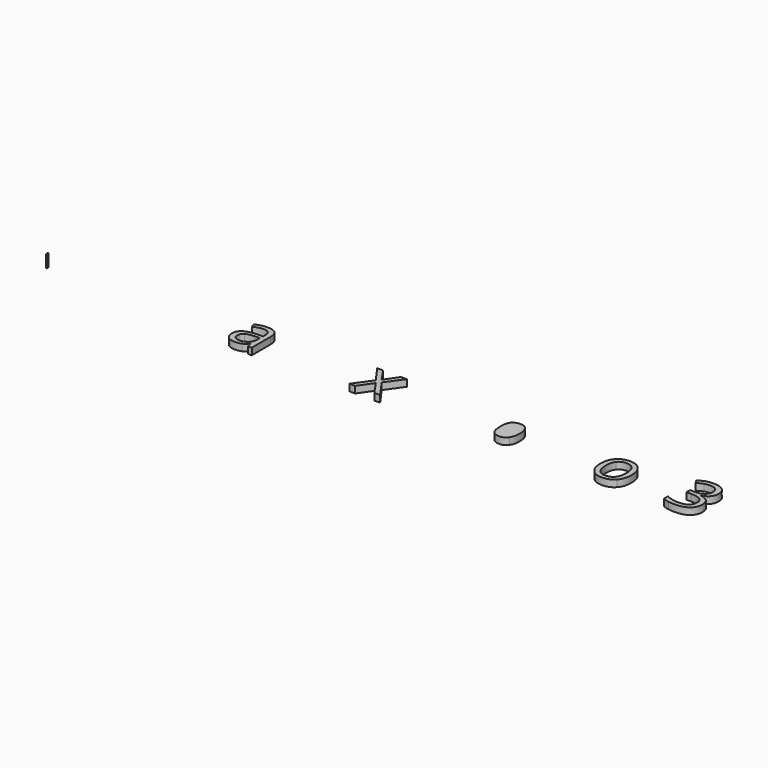
from build123d import *

# Parameters (mm, degrees)
F0_W     = 7.8056156635
F0_H     = 47.1107587218
F1_DEPTH = 2.54
F3_DEPTH = 25.4


with BuildPart() as f1:
    # F0 (on Right) → F1 (new body)
    with BuildSketch(Plane.YZ):
        with Locations((-38.4498685598, 23.5553793609)):
            Rectangle(F0_W, F0_H)
    extrude(amount=F1_DEPTH)


with BuildPart() as f3:
    # F2 (on Top) → F3 (new body)
    with BuildSketch(Plane.XY):
        with BuildLine():
            Line((799.9901114413, -79.8446993059), (803.8387327154, -98.078943789))
            Line((803.8387327154, -98.078943789), (818.2243559244, -98.078943789))
            Line((818.2243559244, -98.078943789), (818.2243559244, -10.7189773925))
            add(Edge.make_bspline(
                [(807.1829230458, 21.844842417), (818.2243559244, 11.7001756605), (818.2243559244, -10.7189773925)],
                knots=[0, 0, 0, 1, 1, 1], degree=2))
            add(Edge.make_bspline(
                [(773.2739540532, 31.9895091735), (796.1414901672, 31.9895091735), (807.1829230458, 21.844842417)],
                knots=[0, 0, 0, 1, 1, 1], degree=2))
            add(Edge.make_bspline(
                [(750.6492920972, 29.0750192766), (761.9149165063, 31.9895091735), (773.2739540532, 31.9895091735)],
                knots=[0, 0, 0, 1, 1, 1], degree=2))
            add(Edge.make_bspline(
                [(729.9302581507, 21.0414894326), (739.383667688, 26.1605293797), (750.6492920972, 29.0750192766)],
                knots=[0, 0, 0, 1, 1, 1], degree=2))
            Line((729.9302581507, 21.0414894326), (735.9086989648, 6.2074831625))
            add(Edge.make_bspline(
                [(772.0782658903, 15.9971799957), (756.0859367125, 15.9971799957), (735.9086989648, 6.2074831625)],
                knots=[0, 0, 0, 1, 1, 1], degree=2))
            add(Edge.make_bspline(
                [(792.8159824644, 8.8230510187), (786.3517933341, 15.9971799957), (772.0782658903, 15.9971799957)],
                knots=[0, 0, 0, 1, 1, 1], degree=2))
            add(Edge.make_bspline(
                [(799.2801715946, -13.4092757588), (799.2801715946, 1.6489220418), (792.8159824644, 8.8230510187)],
                knots=[0, 0, 0, 1, 1, 1], degree=2))
            Line((799.2801715946, -13.4092757588), (799.2801715946, -21.3680750926))
            Line((799.2801715946, -21.3680750926), (777.5709583883, -22.0780149393))
            add(Edge.make_bspline(
                [(715.5820001968, -62.6940472203), (715.5820001968, -23.9462776937), (777.5709583883, -22.0780149393)],
                knots=[0, 0, 0, 1, 1, 1], degree=2))
            add(Edge.make_bspline(
                [(726.3805589173, -90.6058927713), (715.5820001968, -80.7788306831), (715.5820001968, -62.6940472203)],
                knots=[0, 0, 0, 1, 1, 1], degree=2))
            add(Edge.make_bspline(
                [(756.1980324778, -100.4329548596), (737.1791176378, -100.4329548596), (726.3805589173, -90.6058927713)],
                knots=[0, 0, 0, 1, 1, 1], degree=2))
            add(Edge.make_bspline(
                [(779.9810173415, -96.154633152), (770.4715599215, -100.4329548596), (756.1980324778, -100.4329548596)],
                knots=[0, 0, 0, 1, 1, 1], degree=2))
            add(Edge.make_bspline(
                [(799.0559800641, -79.8446993059), (789.4904747615, -91.8763114443), (779.9810173415, -96.154633152)],
                knots=[0, 0, 0, 1, 1, 1], degree=2))
            Line((799.0559800641, -79.8446993059), (799.9901114413, -79.8446993059))
        make_face()
        with BuildLine():
            add(Edge.make_bspline(
                [(760.0466537519, -84.4032604267), (778.1688024697, -84.4032604267), (788.5002955017, -74.4827852007)],
                knots=[0, 0, 0, 1, 1, 1], degree=2))
            add(Edge.make_bspline(
                [(742.2607923298, -78.9292505562), (748.6128856949, -84.4032604267), (760.0466537519, -84.4032604267)],
                knots=[0, 0, 0, 1, 1, 1], degree=2))
            add(Edge.make_bspline(
                [(735.9086989648, -62.9182387509), (735.9086989648, -73.4552406858), (742.2607923298, -78.9292505562)],
                knots=[0, 0, 0, 1, 1, 1], degree=2))
            add(Edge.make_bspline(
                [(746.1094136039, -43.1333361816), (735.9086989648, -49.5041121742), (735.9086989648, -62.9182387509)],
                knots=[0, 0, 0, 1, 1, 1], degree=2))
            add(Edge.make_bspline(
                [(779.4392211427, -35.9405245771), (756.3101282431, -36.762560189), (746.1094136039, -43.1333361816)],
                knots=[0, 0, 0, 1, 1, 1], degree=2))
            Line((779.4392211427, -35.9405245771), (798.8317885336, -35.1558542202))
            Line((798.8317885336, -35.1558542202), (798.8317885336, -46.7017180425))
            add(Edge.make_bspline(
                [(788.5002955017, -74.4827852007), (798.8317885336, -64.5623099748), (798.8317885336, -46.7017180425)],
                knots=[0, 0, 0, 1, 1, 1], degree=2))
        make_face(mode=Mode.SUBTRACT)
        Polygon((1187.5425372176, 29.8970548886), (1232.0445560278, -32.5776516191), (1185.2258914021, -98.078943789), (1207.1592961389, -98.078943789), (1243.3662283195, -46.2159697264), (1279.2368732044, -98.078943789), (1301.1702779412, -98.078943789), (1254.3516133155, -32.5776516191), (1298.8536321257, 29.8970548886), (1276.9949578991, 29.8970548886), (1243.3662283195, -19.1261597873), (1209.6254029748, 29.8970548886), align=None)
        with BuildLine():
            add(Edge.make_bspline(
                [(1765.1159677456, 2.994071225), (1755.7186060908, 15.7729884652), (1738.6800497706, 15.7729884652)],
                knots=[0, 0, 0, 1, 1, 1], degree=2))
            add(Edge.make_bspline(
                [(1738.6800497706, 15.7729884652), (1719.0632908492, 15.7729884652), (1710.301138531, 4.918381862)],
                knots=[0, 0, 0, 1, 1, 1], degree=2))
            add(Edge.make_bspline(
                [(1710.301138531, 4.918381862), (1701.5389862128, -5.9362247412), (1701.3147946822, -29.6631617223)],
                knots=[0, 0, 0, 1, 1, 1], degree=2))
            Line((1701.3147946822, -29.6631617223), (1701.3147946822, -33.9601660574))
            add(Edge.make_bspline(
                [(1701.3147946822, -33.9601660574), (1701.3147946822, -60.9378802312), (1710.301138531, -72.5584745637)],
                knots=[0, 0, 0, 1, 1, 1], degree=2))
            add(Edge.make_bspline(
                [(1710.301138531, -72.5584745637), (1719.2874823797, -84.1790688961), (1739.1284328316, -84.1790688961)],
                knots=[0, 0, 0, 1, 1, 1], degree=2))
            add(Edge.make_bspline(
                [(1739.1284328316, -84.1790688961), (1755.7186060908, -84.1790688961), (1765.1159677456, -70.7462596919)],
                knots=[0, 0, 0, 1, 1, 1], degree=2))
            add(Edge.make_bspline(
                [(1765.1159677456, -70.7462596919), (1774.5133294003, -57.3134504876), (1774.5133294003, -33.7359745269)],
                knots=[0, 0, 0, 1, 1, 1], degree=2))
            add(Edge.make_bspline(
                [(1774.5133294003, -33.7359745269), (1774.5133294003, -9.7848460153), (1765.1159677456, 2.994071225)],
                knots=[0, 0, 0, 1, 1, 1], degree=2))
        make_face()
        with BuildLine():
            add(Edge.make_bspline(
                [(2195.7318500111, -33.9601660574), (2195.7318500111, -65.2722498214), (2179.9823949914, -82.8526023405)],
                knots=[0, 0, 0, 1, 1, 1], degree=2))
            add(Edge.make_bspline(
                [(2179.9076644812, 14.3717913993), (2195.7318500111, -3.5074831604), (2195.7318500111, -33.9601660574)],
                knots=[0, 0, 0, 1, 1, 1], degree=2))
            add(Edge.make_bspline(
                [(2137.2552257979, 32.2510659591), (2164.0834789513, 32.2510659591), (2179.9076644812, 14.3717913993)],
                knots=[0, 0, 0, 1, 1, 1], degree=2))
            add(Edge.make_bspline(
                [(2093.7994341301, 14.7828092053), (2109.4554760121, 32.2510659591), (2137.2552257979, 32.2510659591)],
                knots=[0, 0, 0, 1, 1, 1], degree=2))
            add(Edge.make_bspline(
                [(2078.1433922481, -33.9601660574), (2078.1433922481, -2.6854475485), (2093.7994341301, 14.7828092053)],
                knots=[0, 0, 0, 1, 1, 1], degree=2))
            add(Edge.make_bspline(
                [(2085.3922517353, -69.2329668608), (2078.1433922481, -54.1747690602), (2078.1433922481, -33.9601660574)],
                knots=[0, 0, 0, 1, 1, 1], degree=2))
            add(Edge.make_bspline(
                [(2105.9431420338, -92.3620597605), (2092.6411112224, -84.2911646614), (2085.3922517353, -69.2329668608)],
                knots=[0, 0, 0, 1, 1, 1], degree=2))
            add(Edge.make_bspline(
                [(2136.4331901859, -100.4329548596), (2119.2451728453, -100.4329548596), (2105.9431420338, -92.3620597605)],
                knots=[0, 0, 0, 1, 1, 1], degree=2))
            add(Edge.make_bspline(
                [(2179.9823949914, -82.8526023405), (2164.2329399716, -100.4329548596), (2136.4331901859, -100.4329548596)],
                knots=[0, 0, 0, 1, 1, 1], degree=2))
        make_face()
        with BuildLine():
            add(Edge.make_bspline(
                [(2098.2458994856, -33.9601660574), (2098.2458994856, -58.5091386505), (2108.0542789463, -71.3441037733)],
                knots=[0, 0, 0, 1, 1, 1], degree=2))
            add(Edge.make_bspline(
                [(2107.9421831811, 3.2743106381), (2098.2458994856, -9.2243671889), (2098.2458994856, -33.9601660574)],
                knots=[0, 0, 0, 1, 1, 1], degree=2))
            add(Edge.make_bspline(
                [(2136.6573817165, 15.7729884652), (2117.6384668765, 15.7729884652), (2107.9421831811, 3.2743106381)],
                knots=[0, 0, 0, 1, 1, 1], degree=2))
            add(Edge.make_bspline(
                [(2165.8022806854, 3.1061669902), (2155.937853342, 15.7729884652), (2136.6573817165, 15.7729884652)],
                knots=[0, 0, 0, 1, 1, 1], degree=2))
            add(Edge.make_bspline(
                [(2175.6667080287, -33.9601660574), (2175.6667080287, -9.5606544847), (2165.8022806854, 3.1061669902)],
                knots=[0, 0, 0, 1, 1, 1], degree=2))
            add(Edge.make_bspline(
                [(2165.8022806854, -71.4001516559), (2175.6667080287, -58.6212344157), (2175.6667080287, -33.9601660574)],
                knots=[0, 0, 0, 1, 1, 1], degree=2))
            add(Edge.make_bspline(
                [(2136.881573247, -84.1790688961), (2155.937853342, -84.1790688961), (2165.8022806854, -71.4001516559)],
                knots=[0, 0, 0, 1, 1, 1], degree=2))
            add(Edge.make_bspline(
                [(2108.0542789463, -71.3441037733), (2117.862658407, -84.1790688961), (2136.881573247, -84.1790688961)],
                knots=[0, 0, 0, 1, 1, 1], degree=2))
        make_face(mode=Mode.SUBTRACT)
        with BuildLine():
            add(Edge.make_bspline(
                [(2469.8433613392, 32.4752574896), (2469.8433613392, 16.109275761), (2460.670191215, 5.7217348464)],
                knots=[0, 0, 0, 1, 1, 1], degree=2))
            add(Edge.make_bspline(
                [(2456.0555822116, 63.693928116), (2469.8433613392, 52.3162079416), (2469.8433613392, 32.4752574896)],
                knots=[0, 0, 0, 1, 1, 1], degree=2))
            add(Edge.make_bspline(
                [(2417.4199084502, 75.0716482904), (2442.267803084, 75.0716482904), (2456.0555822116, 63.693928116)],
                knots=[0, 0, 0, 1, 1, 1], degree=2))
            add(Edge.make_bspline(
                [(2388.4992010119, 70.3449435217), (2402.2122496293, 75.0716482904), (2417.4199084502, 75.0716482904)],
                knots=[0, 0, 0, 1, 1, 1], degree=2))
            add(Edge.make_bspline(
                [(2364.2865157146, 57.3231521234), (2374.7861523944, 65.618238753), (2388.4992010119, 70.3449435217)],
                knots=[0, 0, 0, 1, 1, 1], degree=2))
            Line((2364.2865157146, 57.3231521234), (2374.0762125478, 44.2453128425))
            add(Edge.make_bspline(
                [(2396.7382397588, 55.4735719965), (2386.8177645329, 52.4283037068), (2374.0762125478, 44.2453128425)],
                knots=[0, 0, 0, 1, 1, 1], degree=2))
            add(Edge.make_bspline(
                [(2417.8682915113, 58.5188402862), (2406.6587149848, 58.5188402862), (2396.7382397588, 55.4735719965)],
                knots=[0, 0, 0, 1, 1, 1], degree=2))
            add(Edge.make_bspline(
                [(2441.1655280589, 51.3820765643), (2432.5902020161, 58.5188402862), (2417.8682915113, 58.5188402862)],
                knots=[0, 0, 0, 1, 1, 1], degree=2))
            add(Edge.make_bspline(
                [(2449.7408541016, 31.765317643), (2449.7408541016, 44.2453128425), (2441.1655280589, 51.3820765643)],
                knots=[0, 0, 0, 1, 1, 1], degree=2))
            add(Edge.make_bspline(
                [(2438.0642118865, 7.2910755601), (2449.7408541016, 16.109275761), (2449.7408541016, 31.765317643)],
                knots=[0, 0, 0, 1, 1, 1], degree=2))
            add(Edge.make_bspline(
                [(2406.4345234543, -1.5271246407), (2426.3875696714, -1.5271246407), (2438.0642118865, 7.2910755601)],
                knots=[0, 0, 0, 1, 1, 1], degree=2))
            Line((2406.4345234543, -1.5271246407), (2389.395967134, -1.5271246407))
            Line((2389.395967134, -1.5271246407), (2389.395967134, -18.1920284101))
            Line((2389.395967134, -18.1920284101), (2406.2103319237, -18.1920284101))
            add(Edge.make_bspline(
                [(2455.0093550691, -49.2799206436), (2455.0093550691, -18.1920284101), (2406.2103319237, -18.1920284101)],
                knots=[0, 0, 0, 1, 1, 1], degree=2))
            add(Edge.make_bspline(
                [(2410.7688930445, -83.9548773656), (2455.0093550691, -83.9548773656), (2455.0093550691, -49.2799206436)],
                knots=[0, 0, 0, 1, 1, 1], degree=2))
            add(Edge.make_bspline(
                [(2387.0045908083, -81.0964353514), (2399.559316518, -83.9548773656), (2410.7688930445, -83.9548773656)],
                knots=[0, 0, 0, 1, 1, 1], degree=2))
            add(Edge.make_bspline(
                [(2363.3523843374, -72.7453008391), (2374.4498650986, -78.2379933371), (2387.0045908083, -81.0964353514)],
                knots=[0, 0, 0, 1, 1, 1], degree=2))
            Line((2363.3523843374, -72.7453008391), (2363.3523843374, -91.2037368528))
            add(Edge.make_bspline(
                [(2385.2297411916, -98.3778658297), (2373.9641167825, -96.3227767999), (2363.3523843374, -91.2037368528)],
                knots=[0, 0, 0, 1, 1, 1], degree=2))
            add(Edge.make_bspline(
                [(2410.0589531978, -100.4329548596), (2396.4953656008, -100.4329548596), (2385.2297411916, -98.3778658297)],
                knots=[0, 0, 0, 1, 1, 1], degree=2))
            add(Edge.make_bspline(
                [(2458.1480364965, -87.2803850685), (2441.2215759415, -100.4329548596), (2410.0589531978, -100.4329548596)],
                knots=[0, 0, 0, 1, 1, 1], degree=2))
            add(Edge.make_bspline(
                [(2475.0744970515, -49.7283037047), (2475.0744970515, -74.1278152774), (2458.1480364965, -87.2803850685)],
                knots=[0, 0, 0, 1, 1, 1], degree=2))
            add(Edge.make_bspline(
                [(2465.1540218256, -22.171428077), (2475.0744970515, -32.6897473844), (2475.0744970515, -49.7283037047)],
                knots=[0, 0, 0, 1, 1, 1], degree=2))
            add(Edge.make_bspline(
                [(2434.682656301, -9.1122714237), (2455.2335465996, -11.6531087697), (2465.1540218256, -22.171428077)],
                knots=[0, 0, 0, 1, 1, 1], degree=2))
            Line((2434.682656301, -9.1122714237), (2434.682656301, -8.1781400465))
            add(Edge.make_bspline(
                [(2460.670191215, 5.7217348464), (2451.4970210908, -4.6658060682), (2434.682656301, -8.1781400465)],
                knots=[0, 0, 0, 1, 1, 1], degree=2))
        make_face()
    extrude(amount=F3_DEPTH)


solid = Compound([f1.part, f3.part])
